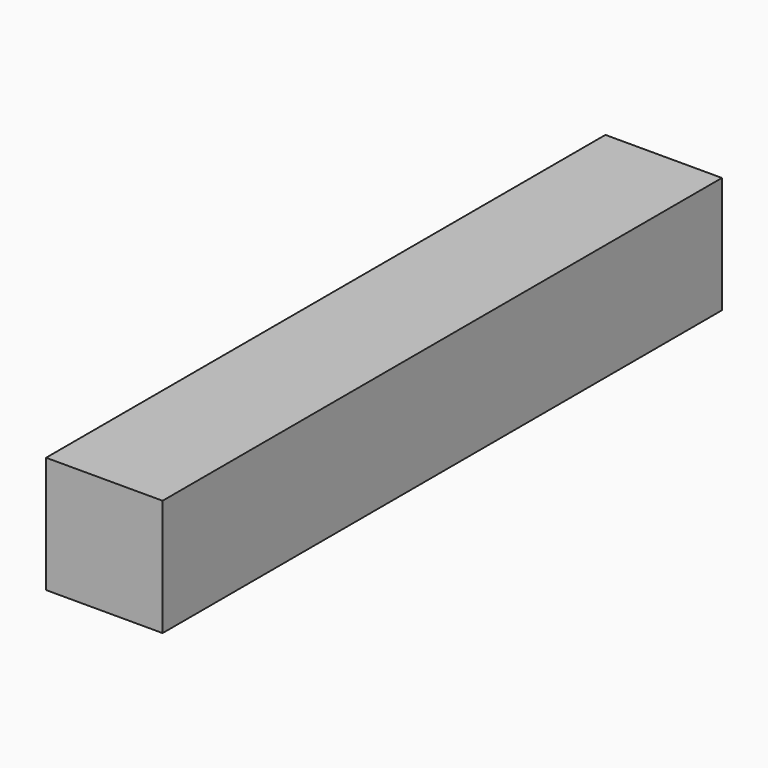
from build123d import *

# Parameters (mm, degrees)
SKETCH001_W = 4
SKETCH001_H = 4
PAD_DEPTH   = 24


with BuildPart() as part:
    # Sketch001 → Pad (new body)
    with BuildSketch(Plane(origin=(-8.845912, -9.712389, 7.5), x_dir=(1, 0, 0), z_dir=(0, 1, 0))):
        with Locations((-0.154088, 0)):
            Rectangle(SKETCH001_W, SKETCH001_H)
    extrude(amount=PAD_DEPTH)


solid = part.part
